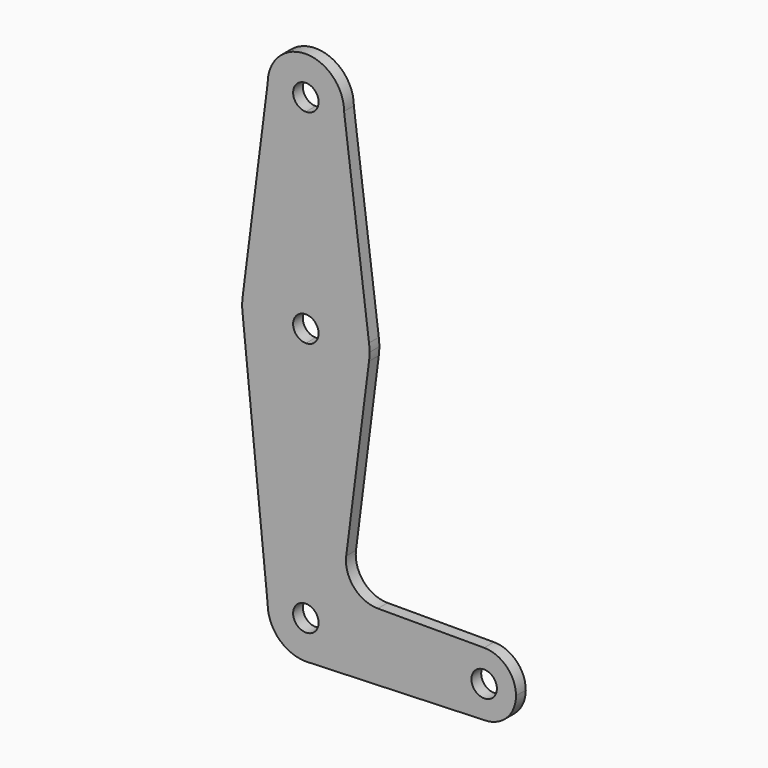
from build123d import *

# Parameters (mm, degrees)
F1_DEPTH = 3.048


with BuildPart() as f1:
    # F0 (on Front) → F1 (new body)
    with BuildSketch(Plane.XZ):
        with BuildLine():
            Line((-9.525, 114.3), (-15.7474569047, 65.5082893304))
            ThreePointArc((-15.7474569047, 65.5082893304), (-10.4912828548, 75.4142187767), (0, 79.375))
            Line((0, 79.375), (0, 104.775))
            ThreePointArc((0, 104.775), (-6.7351920908, 107.5648079092), (-9.525, 114.3))
        make_face()
        with BuildLine():
            Line((0, 104.775), (0, 79.375))
            ThreePointArc((0, 79.375), (10.4912828548, 75.4142187767), (15.7474569047, 65.5082893304))
            Line((15.7474569047, 65.5082893304), (9.525, 114.3))
            ThreePointArc((9.525, 114.3), (6.7351920908, 107.5648079092), (0, 104.775))
        make_face()
        with BuildLine():
            ThreePointArc((9.525, 114.3), (0, 123.825), (-9.525, 114.3))
            ThreePointArc((-9.525, 114.3), (-6.7351920908, 107.5648079092), (0, 104.775))
            ThreePointArc((0, 104.775), (6.7351920908, 107.5648079092), (9.525, 114.3))
        make_face()
        with BuildLine():
            ThreePointArc((3.175, 114.3), (2.2450640303, 112.0549359697), (0, 111.125))
            ThreePointArc((0, 111.125), (-2.2450640303, 116.5450640303), (3.175, 114.3))
        make_face(mode=Mode.SUBTRACT)
        with BuildLine():
            ThreePointArc((-15.7474569047, 61.4917106696), (-10.4912828548, 51.5857812233), (0, 47.625))
            Line((0, 47.625), (0, 60.325))
            ThreePointArc((0, 60.325), (-3.175, 63.5), (0, 66.675))
            Line((0, 66.675), (0, 79.375))
            ThreePointArc((0, 79.375), (-10.4912828548, 75.4142187767), (-15.7474569047, 65.5082893304))
            ThreePointArc((-15.7474569047, 65.5082893304), (-15.875, 63.5), (-15.7474569047, 61.4917106696))
        make_face()
        with BuildLine():
            ThreePointArc((-9.525, 0), (-6.7351920908, 6.7351920908), (0, 9.525))
            Line((0, 9.525), (0, 47.625))
            ThreePointArc((0, 47.625), (-10.4912828548, 51.5857812233), (-15.7474569047, 61.4917106696))
            Line((-15.7474569047, 61.4917106696), (-9.525, 0))
        make_face()
        with BuildLine():
            Line((0, 47.625), (0, 9.525))
            ThreePointArc((0, 9.525), (6.7351920908, 6.7351920908), (9.525, 0))
            Line((9.525, 0), (36.5125, 0))
            ThreePointArc((36.5125, 0), (38.8373399243, 5.6126600757), (44.45, 7.9375))
            Line((44.45, 7.9375), (17.9461215627, 7.9375))
            ThreePointArc((17.9461215627, 7.9375), (11.9794807993, 10.6336655463), (10.0597951449, 16.8934512966))
            Line((10.0597951449, 16.8934512966), (15.7474569047, 61.4917106696))
            ThreePointArc((15.7474569047, 61.4917106696), (10.4912828548, 51.5857812233), (0, 47.625))
        make_face()
        with BuildLine():
            ThreePointArc((3.175, 0), (-2.2450640303, -2.2450640303), (0, 3.175))
            Line((0, 3.175), (0, 9.525))
            ThreePointArc((0, 9.525), (-6.7351920908, 6.7351920908), (-9.525, 0))
            ThreePointArc((-9.525, 0), (-6.7351920908, -6.7351920908), (0, -9.525))
            Line((0, -9.525), (0.6794904459, -9.5007324841))
            ThreePointArc((0.6794904459, -9.5007324841), (6.9712901065, -6.4905114784), (9.525, 0))
            Line((9.525, 0), (3.175, 0))
        make_face()
        with BuildLine():
            Line((0, 9.525), (0, 3.175))
            ThreePointArc((0, 3.175), (2.2450640303, 2.2450640303), (3.175, 0))
            Line((3.175, 0), (9.525, 0))
            ThreePointArc((9.525, 0), (6.7351920908, 6.7351920908), (0, 9.525))
        make_face()
        with BuildLine():
            Line((36.5125, 0), (9.525, 0))
            ThreePointArc((9.525, 0), (6.9712901065, -6.4905114784), (0.6794904459, -9.5007324841))
            Line((0.6794904459, -9.5007324841), (44.45, -7.9375))
            ThreePointArc((44.45, -7.9375), (38.8373399243, -5.6126600757), (36.5125, 0))
        make_face()
        with BuildLine():
            ThreePointArc((44.45, 7.9375), (38.8373399243, 5.6126600757), (36.5125, 0))
            ThreePointArc((36.5125, 0), (38.8373399243, -5.6126600757), (44.45, -7.9375))
            ThreePointArc((44.45, -7.9375), (50.0626600757, -5.6126600757), (52.3875, 0))
            ThreePointArc((52.3875, 0), (50.0626600757, 5.6126600757), (44.45, 7.9375))
        make_face()
        with BuildLine():
            ThreePointArc((47.625, 0), (44.45, -3.175), (41.275, 0))
            ThreePointArc((41.275, 0), (44.45, 3.175), (47.625, 0))
        make_face(mode=Mode.SUBTRACT)
        with BuildLine():
            Line((0, 60.325), (0, 47.625))
            ThreePointArc((0, 47.625), (10.4912828548, 51.5857812233), (15.7474569047, 61.4917106696))
            ThreePointArc((15.7474569047, 61.4917106696), (15.8430821396, 62.4938323604), (15.875, 63.5))
            ThreePointArc((15.875, 63.5), (15.8430821396, 64.5061676396), (15.7474569047, 65.5082893304))
            ThreePointArc((15.7474569047, 65.5082893304), (10.4912828548, 75.4142187767), (0, 79.375))
            Line((0, 79.375), (0, 66.675))
            ThreePointArc((0, 66.675), (2.2450640303, 65.7450640303), (3.175, 63.5))
            ThreePointArc((3.175, 63.5), (2.2450640303, 61.2549359697), (0, 60.325))
        make_face()
    extrude(amount=F1_DEPTH)


solid = f1.part
